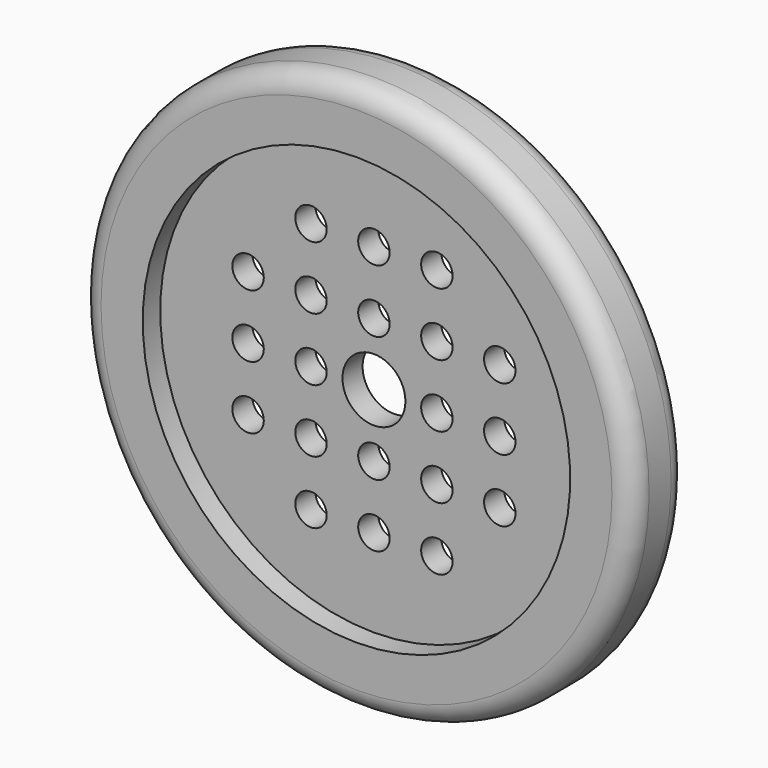
from build123d import *

# Parameters (mm, degrees)
F4_R     = 27.168578
F4_R_2   = 2
F4_R_3   = 4
F5_DEPTH = 1.6


with BuildPart() as f1:
    # F0 (on Right) → F1 (revolve)
    with BuildSketch(Plane.YZ):
        with BuildLine():
            ThreePointArc((1.75, 29.85), (4.375, 32.475), (1.75, 35.1))
            Line((1.75, 35.1), (-1.75, 35.1))
            ThreePointArc((-1.75, 35.1), (-4.375, 32.475), (-1.75, 29.85))
            Line((-1.75, 29.85), (1.75, 29.85))
        make_face()
    revolve(axis=Axis((0, -4.684618, 0), (0, -1, 0)))


with BuildPart() as f3:
    # F2 (on Right) → F3 (revolve)
    with BuildSketch(Plane.YZ):
        with BuildLine():
            ThreePointArc((4.35705, 32.168545), (3.494446, 30.513487), (1.75, 29.85))
            Line((1.75, 29.85), (-1.75, 29.85))
            ThreePointArc((-1.75, 29.85), (-3.606155, 30.618845), (-4.375, 32.475))
            Line((-4.375, 32.475), (-4.375, 27.168578))
            Line((-4.375, 27.168578), (4.375, 27.168578))
            Line((4.375, 27.168578), (4.35705, 32.168545))
        make_face()
    revolve(axis=Axis((0, -6.020614, 0), (0, -1, 0)))

    # F4 (on Front) → F5 (join, symmetric)
    with BuildSketch(Plane.XZ):
        Circle(F4_R)
        with Locations((-8, -16)):
            Circle(F4_R_2, mode=Mode.SUBTRACT)
        with Locations((-16, -8)):
            Circle(F4_R_2, mode=Mode.SUBTRACT)
        with Locations((-8, -8)):
            Circle(F4_R_2, mode=Mode.SUBTRACT)
        with Locations((0, -16)):
            Circle(F4_R_2, mode=Mode.SUBTRACT)
        with Locations((8, -16)):
            Circle(F4_R_2, mode=Mode.SUBTRACT)
        with Locations((0, -8)):
            Circle(F4_R_2, mode=Mode.SUBTRACT)
        with Locations((8, -8)):
            Circle(F4_R_2, mode=Mode.SUBTRACT)
        with Locations((16, -8)):
            Circle(F4_R_2, mode=Mode.SUBTRACT)
        with Locations((-16, 0)):
            Circle(F4_R_2, mode=Mode.SUBTRACT)
        with Locations((-16, 8)):
            Circle(F4_R_2, mode=Mode.SUBTRACT)
        with Locations((-8, 0)):
            Circle(F4_R_2, mode=Mode.SUBTRACT)
        with Locations((-8, 8)):
            Circle(F4_R_2, mode=Mode.SUBTRACT)
        with Locations((-8, 16)):
            Circle(F4_R_2, mode=Mode.SUBTRACT)
        Circle(F4_R_3, mode=Mode.SUBTRACT)
        with Locations((8, 0)):
            Circle(F4_R_2, mode=Mode.SUBTRACT)
        with Locations((0, 8)):
            Circle(F4_R_2, mode=Mode.SUBTRACT)
        with Locations((8, 8)):
            Circle(F4_R_2, mode=Mode.SUBTRACT)
        with Locations((16, 0)):
            Circle(F4_R_2, mode=Mode.SUBTRACT)
        with Locations((16, 8)):
            Circle(F4_R_2, mode=Mode.SUBTRACT)
        with Locations((0, 16)):
            Circle(F4_R_2, mode=Mode.SUBTRACT)
        with Locations((8, 16)):
            Circle(F4_R_2, mode=Mode.SUBTRACT)
    extrude(amount=F5_DEPTH, both=True)


solid = Compound([f1.part, f3.part])
